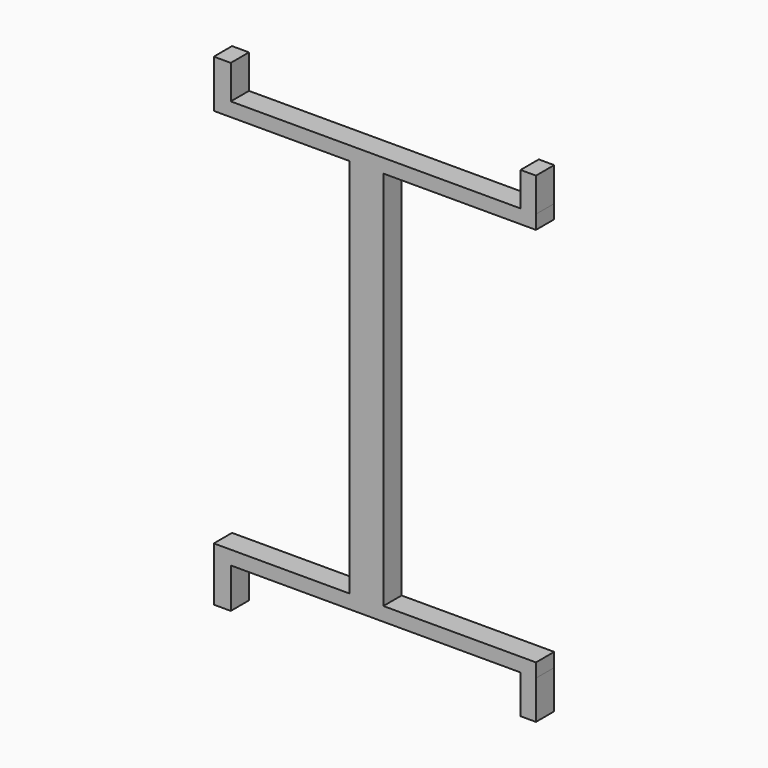
from build123d import *

# Parameters (mm, degrees)
F0_W     = 1.510918
F0_H     = 3.02184
F0_W_2   = 1.373563
F0_H_2   = 3.571262
F0_H_3   = 3.433906
F1_DEPTH = 2.032


with BuildPart() as f1:
    # F0 (on Front) → F1 (new body)
    with BuildSketch(Plane.XZ):
        Polygon((-30.90515, 41.82497), (-33.92699, 41.82497), (-33.92699, 40.588766), (-33.92699, 6.661777), (-33.92699, 5.425571), (-30.90515, 5.425571), (-30.90515, 6.661777), (-30.90515, 40.588766), (-17.306885, 40.588766), (-17.306885, 41.82497), (-18.680448, 41.82497), align=None)
        Polygon((-33.92699, 40.588766), (-33.92699, 41.82497), (-44.503417, 41.82497), (-46.014335, 41.82497), (-46.014335, 40.588766), align=None)
        with Locations((-45.258876, 43.33589)):
            Rectangle(F0_W, F0_H)
        with Locations((-17.993666, 43.33589)):
            Rectangle(F0_W_2, F0_H)
        Polygon((-33.92699, 5.425571), (-33.92699, 6.661777), (-46.014335, 6.661777), (-46.014335, 5.425571), (-44.503417, 5.425571), align=None)
        Polygon((-30.90515, 6.661777), (-30.90515, 5.425571), (-18.680448, 5.425571), (-17.306885, 5.425571), (-17.306885, 6.661777), align=None)
        with Locations((-45.258876, 3.63994)):
            Rectangle(F0_W, F0_H_2)
        with Locations((-17.993666, 3.708618)):
            Rectangle(F0_W_2, F0_H_3)
    extrude(amount=F1_DEPTH)


solid = f1.part
